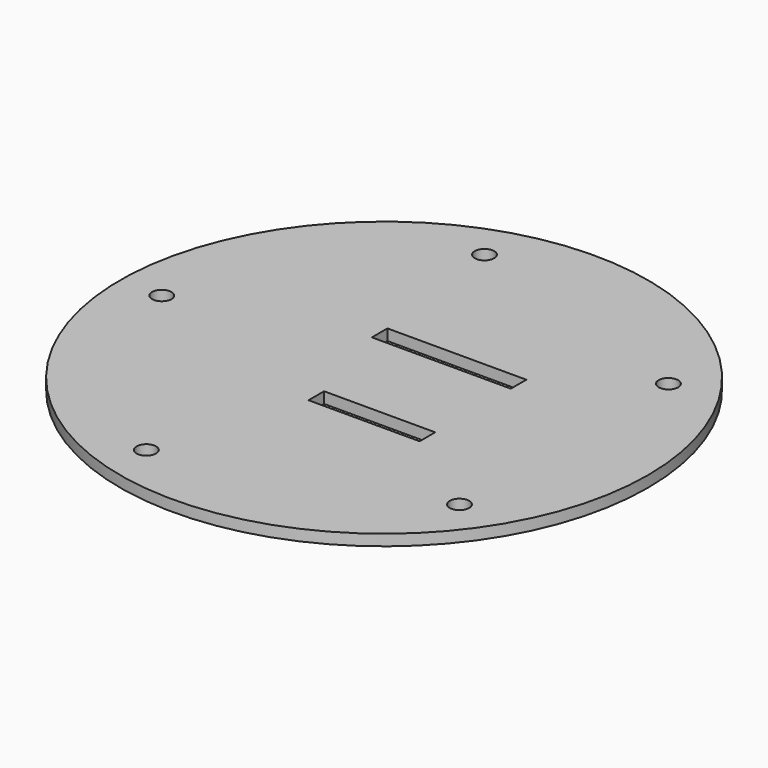
from build123d import *

# Parameters (mm, degrees)
SKETCH003_R     = 47.5
PAD001_DEPTH    = 2
SKETCH012_R     = 1.75
POCKET005_DEPTH = 5
SKETCH021_W     = 25
SKETCH021_H     = 3.5
SKETCH021_W_2   = 20
POCKET013_DEPTH = 5


with BuildPart() as part:
    # Sketch003 → Pad001 (new body)
    with BuildSketch(Plane.XY):
        Circle(SKETCH003_R)
    extrude(amount=PAD001_DEPTH)

    # Sketch012 (on Face3 of Pad001) → Pocket005 (cut)
    with BuildSketch(Plane.XY.offset(2)):
        with Locations((-12.363995, 38.041183)):
            Circle(SKETCH012_R)
        with Locations((-12.347418, -38.046567)):
            Circle(SKETCH012_R)
        with Locations((-40, 0)):
            Circle(SKETCH012_R)
        with Locations((32.356581, 23.51705)):
            Circle(SKETCH012_R)
        with Locations((32.366826, -23.502949)):
            Circle(SKETCH012_R)
    extrude(amount=-POCKET005_DEPTH, mode=Mode.SUBTRACT)

    # Sketch021 (on Face3 of Pocket005) → Pocket013 (cut)
    with BuildSketch(Plane.XY.offset(2)):
        with Locations((3.5, 10.25)):
            Rectangle(SKETCH021_W, SKETCH021_H)
        with Locations((6, -10.25)):
            Rectangle(SKETCH021_W_2, SKETCH021_H)
    extrude(amount=-POCKET013_DEPTH, mode=Mode.SUBTRACT)


with BuildPart() as part_1:
    # Body001 placement: moved
    add(part.part.moved(Location((0, 0, 23))))


solid = part_1.part
